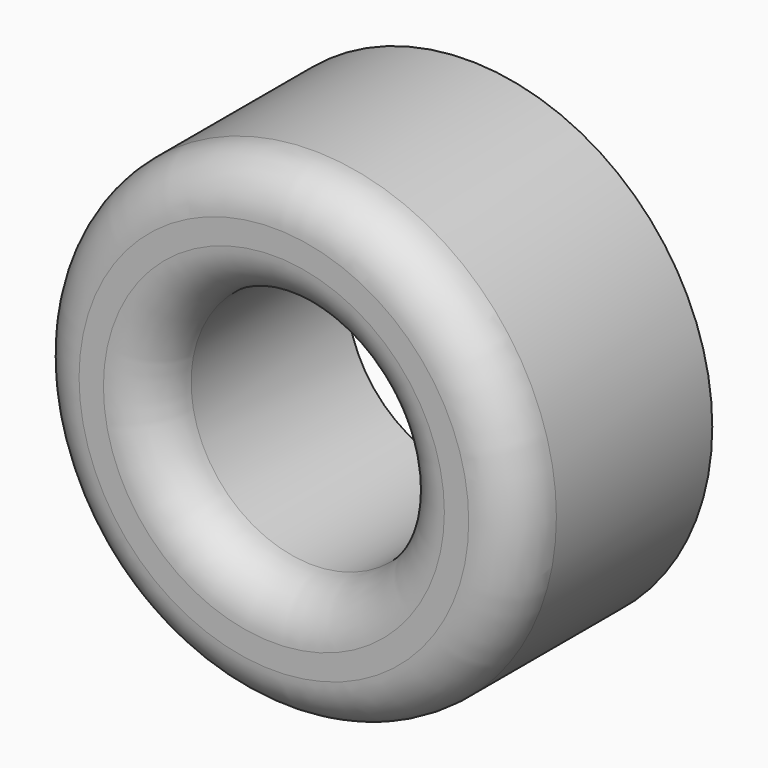
from build123d import *

# Parameters (mm, degrees)
F0_R     = 25.4
F1_DEPTH = 25.4
F2_R     = 12.7
F3_DEPTH = 25.401
F4_R     = 5.08


with BuildPart() as f1:
    # F0 (on Front) → F1 (new body)
    with BuildSketch(Plane.XZ):
        Circle(F0_R)
    extrude(amount=F1_DEPTH)

    # F2 (on face) → F3 (cut, through all)
    with BuildSketch(Plane.XZ.offset(25.4)):
        Circle(F2_R)
    extrude(amount=-F3_DEPTH, mode=Mode.SUBTRACT)

    # F4
    f4_edges = [f1.edges().sort_by_distance(p)[0] for p in [
        (-25.4, -25.4, 0),
        (-12.7, -25.4, 0),
    ]]
    fillet(f4_edges, radius=F4_R)


solid = f1.part
